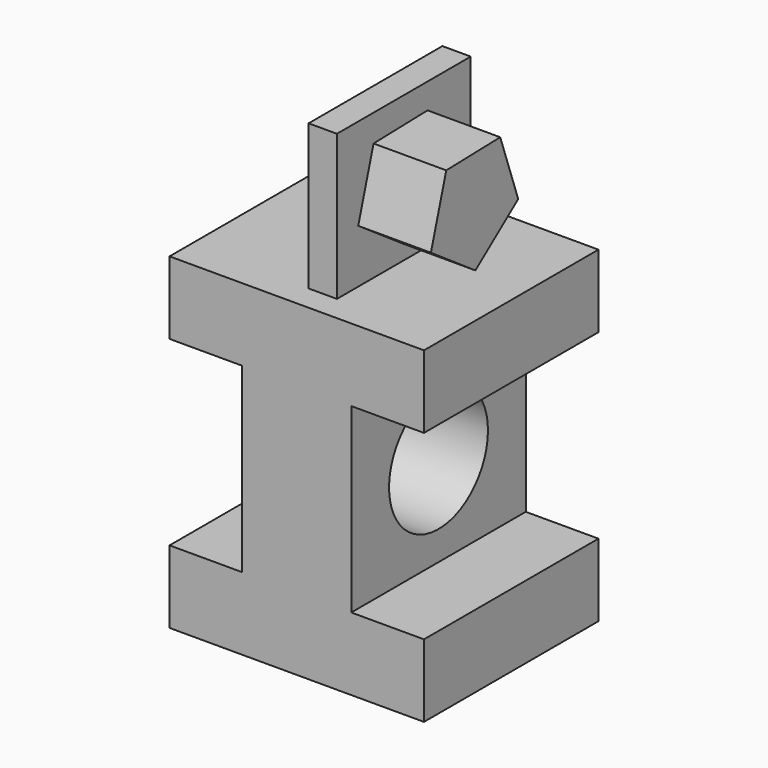
from build123d import *

# Parameters (mm, degrees)
F1_DEPTH = 76.2
F2_R     = 21.590363
F3_DEPTH = 63.501
F4_W     = 9.904528
F4_H     = 58.43965
F5_DEPTH = 50.8
F7_DEPTH = 25.4


with BuildPart() as f1:
    # F0 (on Front) → F1 (new body)
    with BuildSketch(Plane.XZ):
        Polygon((-46.429671, -13.227126), (-46.429671, -38.627126), (42.470329, -38.627126), (42.470329, -13.227126), (17.070329, -13.227126), (17.070329, 50.272874), (42.470329, 50.272874), (42.470329, 75.672874), (-46.429671, 75.672874), (-46.429671, 50.272874), (-21.029671, 50.272874), (-21.029671, -13.227126), align=None)
    extrude(amount=F1_DEPTH)

    # F2 (on face) → F3 (cut, through all)
    with BuildSketch(Plane.YZ.offset(17.070329)):
        with Locations((-38.1, 18.522874)):
            Circle(F2_R)
    extrude(amount=-F3_DEPTH, mode=Mode.SUBTRACT)

    # F4 (on face) → F5 (join)
    with BuildSketch(Plane.XY.offset(75.672874)):
        with Locations((0, -38.1)):
            Rectangle(F4_W, F4_H)
    extrude(amount=F5_DEPTH)

    # F6 (on face) → F7 (join)
    with BuildSketch(Plane.YZ.offset(4.952264)):
        Polygon((-19.896209, 95.37485), (-27.760912, 117.595732), (-51.324553, 116.982586), (-58.022983, 94.382759), (-38.599198, 81.028443), align=None)
    extrude(amount=F7_DEPTH)


solid = f1.part
